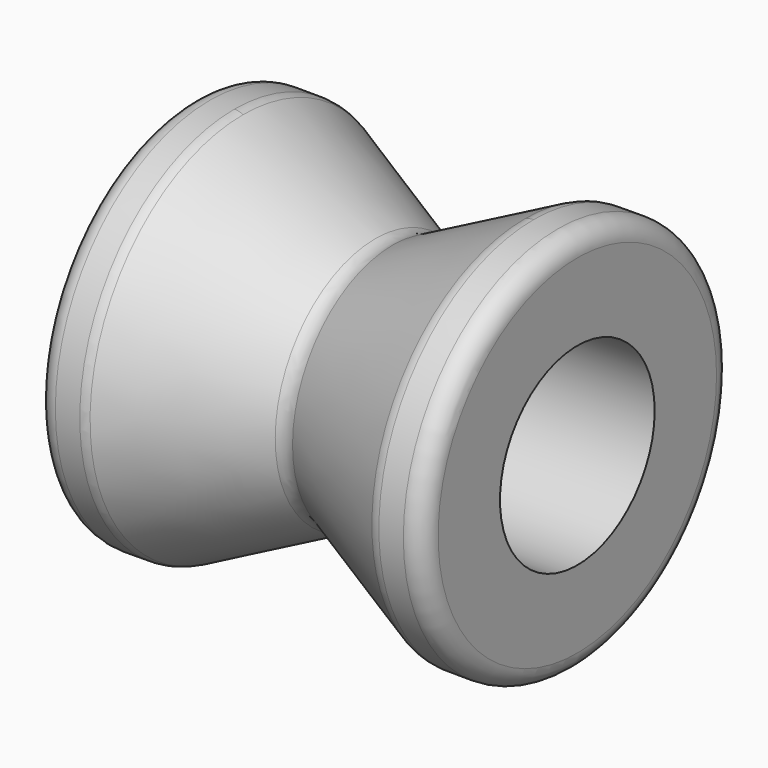
from build123d import *

# Parameters (mm, degrees)
F0_R     = 50.8
F1_DEPTH = 50.8
F2_R     = 25.4
F3_DEPTH = 101.601
F6_R     = 5.08
F7_R     = 5.08


with BuildPart() as f1:
    # F0 (on Right) → F1 (new body, symmetric)
    with BuildSketch(Plane.YZ):
        Circle(F0_R)
    extrude(amount=F1_DEPTH, both=True)

    # F2 (on face) → F3 (cut, through all)
    with BuildSketch(Plane.YZ.offset(50.8)):
        Circle(F2_R)
    extrude(amount=-F3_DEPTH, mode=Mode.SUBTRACT)

    # F4 (on Front) → F5 (revolve, cut)
    with BuildSketch(Plane.XZ):
        Polygon((38.1, 50.8), (-38.1, 50.8), (0, 31.75), align=None)
    revolve(axis=Axis((-4.27404, 0, 0), (1, 0, 0)), mode=Mode.SUBTRACT)

    # F6
    f6_edges = [f1.edges().sort_by_distance(p)[0] for p in [
        (0, 0, -31.75),
    ]]
    fillet(f6_edges, radius=F6_R)

    # F7
    f7_edges = [f1.edges().sort_by_distance(p)[0] for p in [
        (38.1, -35.921024, -35.921024),
        (50.8, -50.8, 0),
        (-38.1, -35.921024, -35.921024),
        (-50.8, -50.8, 0),
    ]]
    fillet(f7_edges, radius=F7_R)


solid = f1.part
